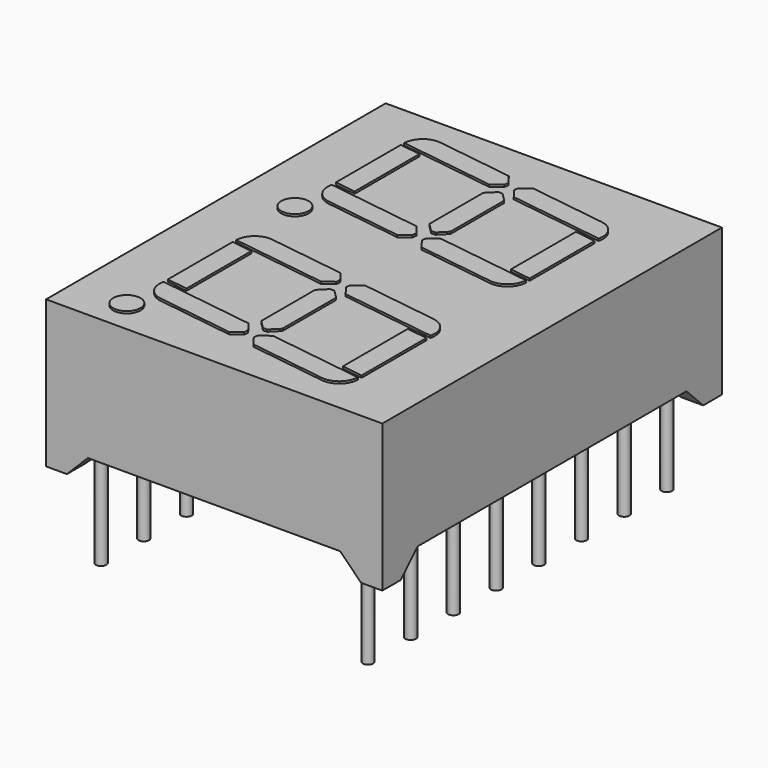
from build123d import *

# Parameters (mm, degrees)
BOX001_W               = 14
BOX001_H               = 25
BOX001_DEPTH           = 2
CHAMFER002_SIZE        = 1
CHAMFER003_SIZE        = 1
BOX_W                  = 20
BOX_H                  = 18
BOX_DEPTH              = 2
CHAMFER_SIZE           = 1
CHAMFER001_SIZE        = 1
SKETCH_W               = 16
SKETCH_H               = 20.2
PAD_DEPTH              = 7
CYLINDER_R             = 0.25
CYLINDER_DEPTH         = 6
CYLINDER001_R          = 0.25
CYLINDER001_DEPTH      = 6
CYLINDER002_R          = 0.25
CYLINDER002_DEPTH      = 6
CYLINDER003_R          = 0.25
CYLINDER003_DEPTH      = 6
CYLINDER004_R          = 0.25
CYLINDER004_DEPTH      = 6
CYLINDER005_R          = 0.25
CYLINDER005_DEPTH      = 6
CYLINDER006_R          = 0.25
CYLINDER006_DEPTH      = 6
CYLINDER007_R          = 0.25
CYLINDER007_DEPTH      = 6
CYLINDER008_R          = 0.25
CYLINDER008_DEPTH      = 6
CYLINDER009_R          = 0.25
CYLINDER009_DEPTH      = 6
CYLINDER010_R          = 0.25
CYLINDER010_DEPTH      = 6
CYLINDER011_R          = 0.25
CYLINDER011_DEPTH      = 6
CYLINDER012_R          = 0.25
CYLINDER012_DEPTH      = 6
CYLINDER013_R          = 0.25
CYLINDER013_DEPTH      = 6
CYLINDER014_R          = 0.25
CYLINDER014_DEPTH      = 6
CYLINDER015_R          = 0.25
CYLINDER015_DEPTH      = 6
BOX005_W               = 5
BOX005_H               = 1
BOX005_DEPTH           = 2
BOX005_PLACEMENT_ANGLE = -8
CHAMFER006_SIZE        = 0.4
CHAMFER007_SIZE        = 0.4
FILLET001_R            = 0.9
BOX003_W               = 5
BOX003_H               = 1
BOX003_DEPTH           = 2
BOX003_PLACEMENT_ANGLE = -8
CHAMFER008_SIZE        = 0.4
CHAMFER009_SIZE        = 0.4
FILLET002_R            = 0.9
BOX002_W               = 5
BOX002_H               = 1
BOX002_DEPTH           = 2
BOX002_PLACEMENT_ANGLE = -8
CHAMFER010_SIZE        = 0.4
CHAMFER011_SIZE        = 0.4
FILLET003_R            = 0.9
BOX011_W               = 3
BOX011_H               = 1
BOX011_DEPTH           = 2
BOX011_PLACEMENT_ANGLE = -8
BOX012_W               = 3
BOX012_H               = 1
BOX012_DEPTH           = 2
BOX012_PLACEMENT_ANGLE = -8
BOX010_W               = 1
BOX010_H               = 4
BOX010_DEPTH           = 2
BOX007_W               = 3
BOX007_H               = 1
BOX007_DEPTH           = 2
BOX007_PLACEMENT_ANGLE = -8
BOX008_W               = 3
BOX008_H               = 1
BOX008_DEPTH           = 2
BOX008_PLACEMENT_ANGLE = -8
BOX006_W               = 1
BOX006_H               = 4
BOX006_DEPTH           = 2
BOX009_W               = 1
BOX009_H               = 4
BOX009_DEPTH           = 2
CHAMFER012_SIZE        = 0.4
CHAMFER013_SIZE        = 0.4
CHAMFER014_SIZE        = 0.4
CHAMFER015_SIZE        = 0.4
CYLINDER016_R          = 0.65
CYLINDER016_DEPTH      = 2
BOX004_W               = 5
BOX004_H               = 1
BOX004_DEPTH           = 2
BOX004_PLACEMENT_ANGLE = -8
CHAMFER004_SIZE        = 0.4
CHAMFER005_SIZE        = 0.4
FILLET_R               = 0.9
BOX016_W               = 5
BOX016_H               = 1
BOX016_DEPTH           = 2
BOX016_PLACEMENT_ANGLE = -8
CHAMFER018_SIZE        = 0.4
CHAMFER019_SIZE        = 0.4
FILLET005_R            = 0.9
BOX014_W               = 5
BOX014_H               = 1
BOX014_DEPTH           = 2
BOX014_PLACEMENT_ANGLE = -8
CHAMFER020_SIZE        = 0.4
CHAMFER021_SIZE        = 0.4
FILLET006_R            = 0.9
BOX013_W               = 5
BOX013_H               = 1
BOX013_DEPTH           = 2
BOX013_PLACEMENT_ANGLE = -8
CHAMFER022_SIZE        = 0.4
CHAMFER023_SIZE        = 0.4
FILLET007_R            = 0.9
BOX022_W               = 3
BOX022_H               = 1
BOX022_DEPTH           = 2
BOX022_PLACEMENT_ANGLE = -8
BOX023_W               = 3
BOX023_H               = 1
BOX023_DEPTH           = 2
BOX023_PLACEMENT_ANGLE = -8
BOX021_W               = 1
BOX021_H               = 4
BOX021_DEPTH           = 2
BOX018_W               = 3
BOX018_H               = 1
BOX018_DEPTH           = 2
BOX018_PLACEMENT_ANGLE = -8
BOX019_W               = 3
BOX019_H               = 1
BOX019_DEPTH           = 2
BOX019_PLACEMENT_ANGLE = -8
BOX017_W               = 1
BOX017_H               = 4
BOX017_DEPTH           = 2
BOX020_W               = 1
BOX020_H               = 4
BOX020_DEPTH           = 2
CHAMFER024_SIZE        = 0.4
CHAMFER025_SIZE        = 0.4
CHAMFER026_SIZE        = 0.4
CHAMFER027_SIZE        = 0.4
CYLINDER017_R          = 0.65
CYLINDER017_DEPTH      = 2
BOX015_W               = 5
BOX015_H               = 1
BOX015_DEPTH           = 2
BOX015_PLACEMENT_ANGLE = -8
CHAMFER016_SIZE        = 0.4
CHAMFER017_SIZE        = 0.4
FILLET004_R            = 0.9


with BuildPart() as chamfer003:
    # Box001 → Box001 (new body)
    with BuildSketch(Plane(origin=(-0.66, -21.7, -1), x_dir=(1, 0, 0), z_dir=(0, 0, 1))):
        with Locations((7, 12.5)):
            Rectangle(BOX001_W, BOX001_H)
    extrude(amount=BOX001_DEPTH)

    # Chamfer002
    chamfer002_edges = [chamfer003.edges().sort_by_distance(p)[0] for p in [
        (13.34, -9.2, 1),
    ]]
    chamfer(chamfer002_edges, length=CHAMFER002_SIZE)

    # Chamfer003
    chamfer003_edges = [chamfer003.edges().sort_by_distance(p)[0] for p in [
        (-0.66, -9.2, 1),
    ]]
    chamfer(chamfer003_edges, length=CHAMFER003_SIZE)


with BuildPart() as chamfer001:
    # Box → Box (new body)
    with BuildSketch(Plane(origin=(-3, -17.9, -1), x_dir=(1, 0, 0), z_dir=(0, 0, 1))):
        with Locations((10, 9)):
            Rectangle(BOX_W, BOX_H)
    extrude(amount=BOX_DEPTH)

    # Chamfer
    chamfer_edges = [chamfer001.edges().sort_by_distance(p)[0] for p in [
        (7, 0.1, 1),
    ]]
    chamfer(chamfer_edges, length=CHAMFER_SIZE)

    # Chamfer001
    chamfer001_edges = [chamfer001.edges().sort_by_distance(p)[0] for p in [
        (7, -17.9, 1),
    ]]
    chamfer(chamfer001_edges, length=CHAMFER001_SIZE)


with BuildPart() as cut001:
    # Sketch → Pad (new body)
    with BuildSketch(Plane.XY):
        with Locations((6.35, -8.89)):
            Rectangle(SKETCH_W, SKETCH_H)
    extrude(amount=PAD_DEPTH)

    # Cut: cut Chamfer001
    add(chamfer001.part, mode=Mode.SUBTRACT)

    # Cut001: cut Chamfer003
    add(chamfer003.part, mode=Mode.SUBTRACT)


with BuildPart() as pin001:
    # Cylinder → Cylinder (new body)
    with BuildSketch(Plane.XY.offset(-4)):
        Circle(CYLINDER_R)
    extrude(amount=CYLINDER_DEPTH)


with BuildPart() as pin002:
    # Cylinder001 → Cylinder001 (new body)
    with BuildSketch(Plane(origin=(0, -2.54, -4), x_dir=(1, 0, 0), z_dir=(0, 0, 1))):
        Circle(CYLINDER001_R)
    extrude(amount=CYLINDER001_DEPTH)


with BuildPart() as pin003:
    # Cylinder002 → Cylinder002 (new body)
    with BuildSketch(Plane(origin=(0, -5.08, -4), x_dir=(1, 0, 0), z_dir=(0, 0, 1))):
        Circle(CYLINDER002_R)
    extrude(amount=CYLINDER002_DEPTH)


with BuildPart() as pin004:
    # Cylinder003 → Cylinder003 (new body)
    with BuildSketch(Plane(origin=(0, -7.62, -4), x_dir=(1, 0, 0), z_dir=(0, 0, 1))):
        Circle(CYLINDER003_R)
    extrude(amount=CYLINDER003_DEPTH)


with BuildPart() as pin005:
    # Cylinder004 → Cylinder004 (new body)
    with BuildSketch(Plane(origin=(0, -10.16, -4), x_dir=(1, 0, 0), z_dir=(0, 0, 1))):
        Circle(CYLINDER004_R)
    extrude(amount=CYLINDER004_DEPTH)


with BuildPart() as pin006:
    # Cylinder005 → Cylinder005 (new body)
    with BuildSketch(Plane(origin=(0, -12.7, -4), x_dir=(1, 0, 0), z_dir=(0, 0, 1))):
        Circle(CYLINDER005_R)
    extrude(amount=CYLINDER005_DEPTH)


with BuildPart() as pin007:
    # Cylinder006 → Cylinder006 (new body)
    with BuildSketch(Plane(origin=(0, -15.24, -4), x_dir=(1, 0, 0), z_dir=(0, 0, 1))):
        Circle(CYLINDER006_R)
    extrude(amount=CYLINDER006_DEPTH)


with BuildPart() as pin008:
    # Cylinder007 → Cylinder007 (new body)
    with BuildSketch(Plane(origin=(0, -17.78, -4), x_dir=(1, 0, 0), z_dir=(0, 0, 1))):
        Circle(CYLINDER007_R)
    extrude(amount=CYLINDER007_DEPTH)


with BuildPart() as pin009:
    # Cylinder008 → Cylinder008 (new body)
    with BuildSketch(Plane(origin=(12.7, 0, -4), x_dir=(1, 0, 0), z_dir=(0, 0, 1))):
        Circle(CYLINDER008_R)
    extrude(amount=CYLINDER008_DEPTH)


with BuildPart() as pin010:
    # Cylinder009 → Cylinder009 (new body)
    with BuildSketch(Plane(origin=(12.7, -2.54, -4), x_dir=(1, 0, 0), z_dir=(0, 0, 1))):
        Circle(CYLINDER009_R)
    extrude(amount=CYLINDER009_DEPTH)


with BuildPart() as pin011:
    # Cylinder010 → Cylinder010 (new body)
    with BuildSketch(Plane(origin=(12.7, -5.08, -4), x_dir=(1, 0, 0), z_dir=(0, 0, 1))):
        Circle(CYLINDER010_R)
    extrude(amount=CYLINDER010_DEPTH)


with BuildPart() as pin012:
    # Cylinder011 → Cylinder011 (new body)
    with BuildSketch(Plane(origin=(12.7, -7.62, -4), x_dir=(1, 0, 0), z_dir=(0, 0, 1))):
        Circle(CYLINDER011_R)
    extrude(amount=CYLINDER011_DEPTH)


with BuildPart() as pin013:
    # Cylinder012 → Cylinder012 (new body)
    with BuildSketch(Plane(origin=(12.7, -10.16, -4), x_dir=(1, 0, 0), z_dir=(0, 0, 1))):
        Circle(CYLINDER012_R)
    extrude(amount=CYLINDER012_DEPTH)


with BuildPart() as pin014:
    # Cylinder013 → Cylinder013 (new body)
    with BuildSketch(Plane(origin=(12.7, -12.7, -4), x_dir=(1, 0, 0), z_dir=(0, 0, 1))):
        Circle(CYLINDER013_R)
    extrude(amount=CYLINDER013_DEPTH)


with BuildPart() as pin015:
    # Cylinder014 → Cylinder014 (new body)
    with BuildSketch(Plane(origin=(12.7, -15.24, -4), x_dir=(1, 0, 0), z_dir=(0, 0, 1))):
        Circle(CYLINDER014_R)
    extrude(amount=CYLINDER014_DEPTH)


with BuildPart() as pin016:
    # Cylinder015 → Cylinder015 (new body)
    with BuildSketch(Plane(origin=(12.7, -17.78, -4), x_dir=(1, 0, 0), z_dir=(0, 0, 1))):
        Circle(CYLINDER015_R)
    extrude(amount=CYLINDER015_DEPTH)


with BuildPart() as fillet001:
    # Box005 → Box005 (new body)
    with BuildSketch(Plane.XY):
        with Locations((2.5, 0.5)):
            Rectangle(BOX005_W, BOX005_H)
    extrude(amount=BOX005_DEPTH)


with BuildPart() as fillet001_1:
    # Box005 placement: moved
    add(fillet001.part.moved(Location((9, 13, 0))).rotate(Axis((9, 13, 0), (0, 0, 1)), BOX005_PLACEMENT_ANGLE))

    # Chamfer006
    chamfer006_edges = [fillet001_1.edges().sort_by_distance(p)[0] for p in [
        (9.139173, 13.990268, 1),
    ]]
    chamfer(chamfer006_edges, length=CHAMFER006_SIZE)

    # Chamfer007
    chamfer007_edges = [fillet001_1.edges().sort_by_distance(p)[0] for p in [
        (9, 13, 1),
    ]]
    chamfer(chamfer007_edges, length=CHAMFER007_SIZE)

    # Fillet001
    fillet001_edges = [fillet001_1.edges().sort_by_distance(p)[0] for p in [
        (13.95134, 12.304134, 1),
    ]]
    fillet(fillet001_edges, radius=FILLET001_R)


with BuildPart() as fillet001_2:
    # Fillet001 placement: moved
    add(fillet001_1.part.moved(Location((-3.65, -1.1, 0))))


with BuildPart() as fillet002:
    # Box003 → Box003 (new body)
    with BuildSketch(Plane.XY):
        with Locations((2.5, 0.5)):
            Rectangle(BOX003_W, BOX003_H)
    extrude(amount=BOX003_DEPTH)


with BuildPart() as fillet002_1:
    # Box003 placement: moved
    add(fillet002.part.moved(Location((0, 13, 0))).rotate(Axis((0, 13, 0), (0, 0, 1)), BOX003_PLACEMENT_ANGLE))

    # Chamfer008
    chamfer008_edges = [fillet002_1.edges().sort_by_distance(p)[0] for p in [
        (4.95134, 12.304134, 1),
    ]]
    chamfer(chamfer008_edges, length=CHAMFER008_SIZE)

    # Chamfer009
    chamfer009_edges = [fillet002_1.edges().sort_by_distance(p)[0] for p in [
        (5.090513, 13.294403, 1),
    ]]
    chamfer(chamfer009_edges, length=CHAMFER009_SIZE)

    # Fillet002
    fillet002_edges = [fillet002_1.edges().sort_by_distance(p)[0] for p in [
        (0, 13, 1),
    ]]
    fillet(fillet002_edges, radius=FILLET002_R)


with BuildPart() as fillet002_2:
    # Fillet002 placement: moved
    add(fillet002_1.part.moved(Location((-0.14, -0.3, 0))))


with BuildPart() as fillet003:
    # Box002 → Box002 (new body)
    with BuildSketch(Plane.XY):
        with Locations((2.5, 0.5)):
            Rectangle(BOX002_W, BOX002_H)
    extrude(amount=BOX002_DEPTH)


with BuildPart() as fillet003_1:
    # Box002 placement: moved
    add(fillet003.part.moved(Location((0, 18, 0))).rotate(Axis((0, 18, 0), (0, 0, 1)), BOX002_PLACEMENT_ANGLE))

    # Chamfer010
    chamfer010_edges = [fillet003_1.edges().sort_by_distance(p)[0] for p in [
        (4.95134, 17.304134, 1),
    ]]
    chamfer(chamfer010_edges, length=CHAMFER010_SIZE)

    # Chamfer011
    chamfer011_edges = [fillet003_1.edges().sort_by_distance(p)[0] for p in [
        (5.090513, 18.294403, 1),
    ]]
    chamfer(chamfer011_edges, length=CHAMFER011_SIZE)

    # Fillet003
    fillet003_edges = [fillet003_1.edges().sort_by_distance(p)[0] for p in [
        (0.139173, 18.990268, 1),
    ]]
    fillet(fillet003_edges, radius=FILLET003_R)


with BuildPart() as kub011:
    # Box011 → Box011 (new body)
    with BuildSketch(Plane.XY):
        with Locations((1.5, 0.5)):
            Rectangle(BOX011_W, BOX011_H)
    extrude(amount=BOX011_DEPTH)


with BuildPart() as kub011_1:
    # Box011 placement: moved
    add(kub011.part.moved(Location((-5, 18.14, 0))).rotate(Axis((-5, 18.14, 0), (0, 0, 1)), BOX011_PLACEMENT_ANGLE))


with BuildPart() as kub012:
    # Box012 → Box012 (new body)
    with BuildSketch(Plane.XY):
        with Locations((1.5, 0.5)):
            Rectangle(BOX012_W, BOX012_H)
    extrude(amount=BOX012_DEPTH)


with BuildPart() as kub012_1:
    # Box012 placement: moved
    add(kub012.part.moved(Location((-5, 13.27, 0))).rotate(Axis((-5, 13.27, 0), (0, 0, 1)), BOX012_PLACEMENT_ANGLE))


with BuildPart() as cut005:
    # Box010 → Box010 (new body)
    with BuildSketch(Plane(origin=(-4, 14, 0), x_dir=(1, 0, 0), z_dir=(0, 0, 1))):
        with Locations((0.5, 2)):
            Rectangle(BOX010_W, BOX010_H)
    extrude(amount=BOX010_DEPTH)

    # Cut004: cut Kub012
    add(kub012_1.part, mode=Mode.SUBTRACT)

    # Cut005: cut Kub011
    add(kub011_1.part, mode=Mode.SUBTRACT)


with BuildPart() as cut005_1:
    # Cut005 placement: moved
    add(cut005.part.moved(Location((13.45, -1.6, 0))))


with BuildPart() as kub007:
    # Box007 → Box007 (new body)
    with BuildSketch(Plane.XY):
        with Locations((1.5, 0.5)):
            Rectangle(BOX007_W, BOX007_H)
    extrude(amount=BOX007_DEPTH)


with BuildPart() as kub007_1:
    # Box007 placement: moved
    add(kub007.part.moved(Location((-5, 18.14, 0))).rotate(Axis((-5, 18.14, 0), (0, 0, 1)), BOX007_PLACEMENT_ANGLE))


with BuildPart() as kub008:
    # Box008 → Box008 (new body)
    with BuildSketch(Plane.XY):
        with Locations((1.5, 0.5)):
            Rectangle(BOX008_W, BOX008_H)
    extrude(amount=BOX008_DEPTH)


with BuildPart() as kub008_1:
    # Box008 placement: moved
    add(kub008.part.moved(Location((-5, 13.27, 0))).rotate(Axis((-5, 13.27, 0), (0, 0, 1)), BOX008_PLACEMENT_ANGLE))


with BuildPart() as cut003:
    # Box006 → Box006 (new body)
    with BuildSketch(Plane(origin=(-4, 14, 0), x_dir=(1, 0, 0), z_dir=(0, 0, 1))):
        with Locations((0.5, 2)):
            Rectangle(BOX006_W, BOX006_H)
    extrude(amount=BOX006_DEPTH)

    # Cut002: cut Kub008
    add(kub008_1.part, mode=Mode.SUBTRACT)

    # Cut003: cut Kub007
    add(kub007_1.part, mode=Mode.SUBTRACT)


with BuildPart() as cut003_1:
    # Cut003 placement: moved
    add(cut003.part.moved(Location((4, -0.2, 0))))


with BuildPart() as chamfer015:
    # Box009 → Box009 (new body)
    with BuildSketch(Plane(origin=(-10, 14, 0), x_dir=(1, 0, 0), z_dir=(0, 0, 1))):
        with Locations((0.5, 2)):
            Rectangle(BOX009_W, BOX009_H)
    extrude(amount=BOX009_DEPTH)

    # Chamfer012
    chamfer012_edges = [chamfer015.edges().sort_by_distance(p)[0] for p in [
        (-9, 14, 1),
    ]]
    chamfer(chamfer012_edges, length=CHAMFER012_SIZE)

    # Chamfer013
    chamfer013_edges = [chamfer015.edges().sort_by_distance(p)[0] for p in [
        (-9, 18, 1),
    ]]
    chamfer(chamfer013_edges, length=CHAMFER013_SIZE)

    # Chamfer014
    chamfer014_edges = [chamfer015.edges().sort_by_distance(p)[0] for p in [
        (-10, 14, 1),
    ]]
    chamfer(chamfer014_edges, length=CHAMFER014_SIZE)

    # Chamfer015
    chamfer015_edges = [chamfer015.edges().sort_by_distance(p)[0] for p in [
        (-10, 18, 1),
    ]]
    chamfer(chamfer015_edges, length=CHAMFER015_SIZE)


with BuildPart() as chamfer015_1:
    # Chamfer015 placement: moved
    add(chamfer015.part.moved(Location((14.8, -0.9, 0))))


with BuildPart() as cylinder:
    # Cylinder016 → Cylinder016 (new body)
    with BuildSketch(Plane(origin=(0, 11.5, 0), x_dir=(1, 0, 0), z_dir=(0, 0, 1))):
        Circle(CYLINDER016_R)
    extrude(amount=CYLINDER016_DEPTH)


with BuildPart() as digit001:
    # Box004 → Box004 (new body)
    with BuildSketch(Plane.XY):
        with Locations((2.5, 0.5)):
            Rectangle(BOX004_W, BOX004_H)
    extrude(amount=BOX004_DEPTH)


with BuildPart() as digit001_1:
    # Box004 placement: moved
    add(digit001.part.moved(Location((9, 18, 0))).rotate(Axis((9, 18, 0), (0, 0, 1)), BOX004_PLACEMENT_ANGLE))

    # Chamfer004
    chamfer004_edges = [digit001_1.edges().sort_by_distance(p)[0] for p in [
        (9, 18, 1),
    ]]
    chamfer(chamfer004_edges, length=CHAMFER004_SIZE)

    # Chamfer005
    chamfer005_edges = [digit001_1.edges().sort_by_distance(p)[0] for p in [
        (9.139173, 18.990268, 1),
    ]]
    chamfer(chamfer005_edges, length=CHAMFER005_SIZE)

    # Fillet
    fillet_edges = [digit001_1.edges().sort_by_distance(p)[0] for p in [
        (14.090513, 18.294403, 1),
    ]]
    fillet(fillet_edges, radius=FILLET_R)


with BuildPart() as digit001_2:
    # Fillet placement: moved
    add(digit001_1.part.moved(Location((-3.5, -0.8, 0))))

    # Fusion: union Fillet001, Fillet002, Fillet003, Cut005, Cut003, Chamfer015, Cylinder
    add(fillet001_2.part)
    add(fillet002_2.part)
    add(fillet003_1.part)
    add(cut005_1.part)
    add(cut003_1.part)
    add(chamfer015_1.part)
    add(cylinder.part)


with BuildPart() as digit001_3:
    # Fusion placement: moved
    add(digit001_2.part.moved(Location((1, -19, 5.1))))


with BuildPart() as fillet005:
    # Box016 → Box016 (new body)
    with BuildSketch(Plane.XY):
        with Locations((2.5, 0.5)):
            Rectangle(BOX016_W, BOX016_H)
    extrude(amount=BOX016_DEPTH)


with BuildPart() as fillet005_1:
    # Box016 placement: moved
    add(fillet005.part.moved(Location((9, 13, 0))).rotate(Axis((9, 13, 0), (0, 0, 1)), BOX016_PLACEMENT_ANGLE))

    # Chamfer018
    chamfer018_edges = [fillet005_1.edges().sort_by_distance(p)[0] for p in [
        (9.139173, 13.990268, 1),
    ]]
    chamfer(chamfer018_edges, length=CHAMFER018_SIZE)

    # Chamfer019
    chamfer019_edges = [fillet005_1.edges().sort_by_distance(p)[0] for p in [
        (9, 13, 1),
    ]]
    chamfer(chamfer019_edges, length=CHAMFER019_SIZE)

    # Fillet005
    fillet005_edges = [fillet005_1.edges().sort_by_distance(p)[0] for p in [
        (13.95134, 12.304134, 1),
    ]]
    fillet(fillet005_edges, radius=FILLET005_R)


with BuildPart() as fillet005_2:
    # Fillet005 placement: moved
    add(fillet005_1.part.moved(Location((-3.65, -1.1, 0))))


with BuildPart() as fillet006:
    # Box014 → Box014 (new body)
    with BuildSketch(Plane.XY):
        with Locations((2.5, 0.5)):
            Rectangle(BOX014_W, BOX014_H)
    extrude(amount=BOX014_DEPTH)


with BuildPart() as fillet006_1:
    # Box014 placement: moved
    add(fillet006.part.moved(Location((0, 13, 0))).rotate(Axis((0, 13, 0), (0, 0, 1)), BOX014_PLACEMENT_ANGLE))

    # Chamfer020
    chamfer020_edges = [fillet006_1.edges().sort_by_distance(p)[0] for p in [
        (4.95134, 12.304134, 1),
    ]]
    chamfer(chamfer020_edges, length=CHAMFER020_SIZE)

    # Chamfer021
    chamfer021_edges = [fillet006_1.edges().sort_by_distance(p)[0] for p in [
        (5.090513, 13.294403, 1),
    ]]
    chamfer(chamfer021_edges, length=CHAMFER021_SIZE)

    # Fillet006
    fillet006_edges = [fillet006_1.edges().sort_by_distance(p)[0] for p in [
        (0, 13, 1),
    ]]
    fillet(fillet006_edges, radius=FILLET006_R)


with BuildPart() as fillet006_2:
    # Fillet006 placement: moved
    add(fillet006_1.part.moved(Location((-0.14, -0.3, 0))))


with BuildPart() as fillet007:
    # Box013 → Box013 (new body)
    with BuildSketch(Plane.XY):
        with Locations((2.5, 0.5)):
            Rectangle(BOX013_W, BOX013_H)
    extrude(amount=BOX013_DEPTH)


with BuildPart() as fillet007_1:
    # Box013 placement: moved
    add(fillet007.part.moved(Location((0, 18, 0))).rotate(Axis((0, 18, 0), (0, 0, 1)), BOX013_PLACEMENT_ANGLE))

    # Chamfer022
    chamfer022_edges = [fillet007_1.edges().sort_by_distance(p)[0] for p in [
        (4.95134, 17.304134, 1),
    ]]
    chamfer(chamfer022_edges, length=CHAMFER022_SIZE)

    # Chamfer023
    chamfer023_edges = [fillet007_1.edges().sort_by_distance(p)[0] for p in [
        (5.090513, 18.294403, 1),
    ]]
    chamfer(chamfer023_edges, length=CHAMFER023_SIZE)

    # Fillet007
    fillet007_edges = [fillet007_1.edges().sort_by_distance(p)[0] for p in [
        (0.139173, 18.990268, 1),
    ]]
    fillet(fillet007_edges, radius=FILLET007_R)


with BuildPart() as kub022:
    # Box022 → Box022 (new body)
    with BuildSketch(Plane.XY):
        with Locations((1.5, 0.5)):
            Rectangle(BOX022_W, BOX022_H)
    extrude(amount=BOX022_DEPTH)


with BuildPart() as kub022_1:
    # Box022 placement: moved
    add(kub022.part.moved(Location((-5, 18.14, 0))).rotate(Axis((-5, 18.14, 0), (0, 0, 1)), BOX022_PLACEMENT_ANGLE))


with BuildPart() as kub023:
    # Box023 → Box023 (new body)
    with BuildSketch(Plane.XY):
        with Locations((1.5, 0.5)):
            Rectangle(BOX023_W, BOX023_H)
    extrude(amount=BOX023_DEPTH)


with BuildPart() as kub023_1:
    # Box023 placement: moved
    add(kub023.part.moved(Location((-5, 13.27, 0))).rotate(Axis((-5, 13.27, 0), (0, 0, 1)), BOX023_PLACEMENT_ANGLE))


with BuildPart() as cut009:
    # Box021 → Box021 (new body)
    with BuildSketch(Plane(origin=(-4, 14, 0), x_dir=(1, 0, 0), z_dir=(0, 0, 1))):
        with Locations((0.5, 2)):
            Rectangle(BOX021_W, BOX021_H)
    extrude(amount=BOX021_DEPTH)

    # Cut008: cut Kub023
    add(kub023_1.part, mode=Mode.SUBTRACT)

    # Cut009: cut Kub022
    add(kub022_1.part, mode=Mode.SUBTRACT)


with BuildPart() as cut009_1:
    # Cut009 placement: moved
    add(cut009.part.moved(Location((13.45, -1.6, 0))))


with BuildPart() as kub018:
    # Box018 → Box018 (new body)
    with BuildSketch(Plane.XY):
        with Locations((1.5, 0.5)):
            Rectangle(BOX018_W, BOX018_H)
    extrude(amount=BOX018_DEPTH)


with BuildPart() as kub018_1:
    # Box018 placement: moved
    add(kub018.part.moved(Location((-5, 18.14, 0))).rotate(Axis((-5, 18.14, 0), (0, 0, 1)), BOX018_PLACEMENT_ANGLE))


with BuildPart() as kub019:
    # Box019 → Box019 (new body)
    with BuildSketch(Plane.XY):
        with Locations((1.5, 0.5)):
            Rectangle(BOX019_W, BOX019_H)
    extrude(amount=BOX019_DEPTH)


with BuildPart() as kub019_1:
    # Box019 placement: moved
    add(kub019.part.moved(Location((-5, 13.27, 0))).rotate(Axis((-5, 13.27, 0), (0, 0, 1)), BOX019_PLACEMENT_ANGLE))


with BuildPart() as cut007:
    # Box017 → Box017 (new body)
    with BuildSketch(Plane(origin=(-4, 14, 0), x_dir=(1, 0, 0), z_dir=(0, 0, 1))):
        with Locations((0.5, 2)):
            Rectangle(BOX017_W, BOX017_H)
    extrude(amount=BOX017_DEPTH)

    # Cut006: cut Kub019
    add(kub019_1.part, mode=Mode.SUBTRACT)

    # Cut007: cut Kub018
    add(kub018_1.part, mode=Mode.SUBTRACT)


with BuildPart() as cut007_1:
    # Cut007 placement: moved
    add(cut007.part.moved(Location((4, -0.2, 0))))


with BuildPart() as chamfer027:
    # Box020 → Box020 (new body)
    with BuildSketch(Plane(origin=(-10, 14, 0), x_dir=(1, 0, 0), z_dir=(0, 0, 1))):
        with Locations((0.5, 2)):
            Rectangle(BOX020_W, BOX020_H)
    extrude(amount=BOX020_DEPTH)

    # Chamfer024
    chamfer024_edges = [chamfer027.edges().sort_by_distance(p)[0] for p in [
        (-9, 14, 1),
    ]]
    chamfer(chamfer024_edges, length=CHAMFER024_SIZE)

    # Chamfer025
    chamfer025_edges = [chamfer027.edges().sort_by_distance(p)[0] for p in [
        (-9, 18, 1),
    ]]
    chamfer(chamfer025_edges, length=CHAMFER025_SIZE)

    # Chamfer026
    chamfer026_edges = [chamfer027.edges().sort_by_distance(p)[0] for p in [
        (-10, 14, 1),
    ]]
    chamfer(chamfer026_edges, length=CHAMFER026_SIZE)

    # Chamfer027
    chamfer027_edges = [chamfer027.edges().sort_by_distance(p)[0] for p in [
        (-10, 18, 1),
    ]]
    chamfer(chamfer027_edges, length=CHAMFER027_SIZE)


with BuildPart() as chamfer027_1:
    # Chamfer027 placement: moved
    add(chamfer027.part.moved(Location((14.8, -0.9, 0))))


with BuildPart() as cylinder001:
    # Cylinder017 → Cylinder017 (new body)
    with BuildSketch(Plane(origin=(0, 11.5, 0), x_dir=(1, 0, 0), z_dir=(0, 0, 1))):
        Circle(CYLINDER017_R)
    extrude(amount=CYLINDER017_DEPTH)


with BuildPart() as digit002:
    # Box015 → Box015 (new body)
    with BuildSketch(Plane.XY):
        with Locations((2.5, 0.5)):
            Rectangle(BOX015_W, BOX015_H)
    extrude(amount=BOX015_DEPTH)


with BuildPart() as digit002_1:
    # Box015 placement: moved
    add(digit002.part.moved(Location((9, 18, 0))).rotate(Axis((9, 18, 0), (0, 0, 1)), BOX015_PLACEMENT_ANGLE))

    # Chamfer016
    chamfer016_edges = [digit002_1.edges().sort_by_distance(p)[0] for p in [
        (9, 18, 1),
    ]]
    chamfer(chamfer016_edges, length=CHAMFER016_SIZE)

    # Chamfer017
    chamfer017_edges = [digit002_1.edges().sort_by_distance(p)[0] for p in [
        (9.139173, 18.990268, 1),
    ]]
    chamfer(chamfer017_edges, length=CHAMFER017_SIZE)

    # Fillet004
    fillet004_edges = [digit002_1.edges().sort_by_distance(p)[0] for p in [
        (14.090513, 18.294403, 1),
    ]]
    fillet(fillet004_edges, radius=FILLET004_R)


with BuildPart() as digit002_2:
    # Fillet004 placement: moved
    add(digit002_1.part.moved(Location((-3.5, -0.8, 0))))

    # Fusion001: union Fillet005, Fillet006, Fillet007, Cut009, Cut007, Chamfer027, Cylinder001
    add(fillet005_2.part)
    add(fillet006_2.part)
    add(fillet007_1.part)
    add(cut009_1.part)
    add(cut007_1.part)
    add(chamfer027_1.part)
    add(cylinder001.part)


with BuildPart() as digit002_3:
    # Fusion001 placement: moved
    add(digit002_2.part.moved(Location((1, -29, 5.1))))


solid = Compound([cut001.part, pin001.part, pin002.part, pin003.part, pin004.part, pin005.part, pin006.part, pin007.part, pin008.part, pin009.part, pin010.part, pin011.part, pin012.part, pin013.part, pin014.part, pin015.part, pin016.part, digit001_3.part, digit002_3.part])
